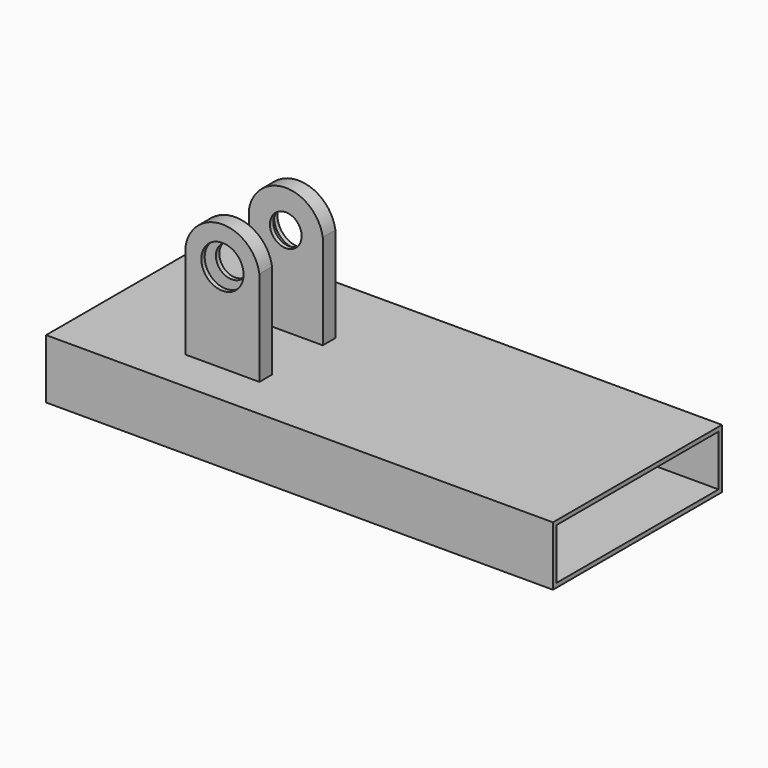
from build123d import *

# Parameters (mm, degrees)
F0_W            = 304.8
F0_H            = 35.6965847313
F1_DEPTH        = 63.5
F2_W            = 25.4
F2_H            = 44.45
F3_DEPTH        = 152.4
F4_W            = 44.45
F4_H            = 9.525
F5_DEPTH        = 57.15
F6_DEPTH        = 57.15
F9_DEPTH        = 9.525
F10_DEPTH       = 9.525
F11_W           = 304.8
F11_H           = 114.3
F12_DEPTH       = 31.75
F13_T           = -2.54
F16_D           = 19.05
F16_DEPTH       = 9.525
F16_CBORE_D     = 25.4
F16_CBORE_DEPTH = 3.81
F16_TIP         = 5.7231973962
F17_D           = 19.05
F17_DEPTH       = 9.525
F17_CBORE_D     = 25.4
F17_CBORE_DEPTH = 3.81
F17_TIP         = 5.7231973962


with BuildPart() as f1:
    # F0 (on Front) → F1 (new body, symmetric)
    with BuildSketch(Plane.XZ):
        with Locations((25.4629384518, -47.1194889396)):
            Rectangle(F0_W, F0_H)
    extrude(amount=F1_DEPTH, both=True)

    # F2 (on face) → F3 (cut)
    with BuildSketch(Plane.XZ.offset(63.5)):
        with BuildLine():
            ThreePointArc((-37.1512658894, 15.178803426), (-49.8512658894, 27.878803426), (-62.5512658894, 15.178803426))
            Line((-62.5512658894, 15.178803426), (-37.1512658894, 15.178803426))
        make_face()
        with Locations((-49.8512658894, -7.046196574)):
            Rectangle(F2_W, F2_H)
    extrude(amount=-F3_DEPTH, mode=Mode.SUBTRACT)

    # F4 (on face) → F5 (join)
    with BuildSketch(Plane.XY.offset(-29.271196574)):
        with Locations((-41.2120615482, 14.2875)):
            Rectangle(F4_W, F4_H)
    extrude(amount=F5_DEPTH)

    # F4 (on face) → F6 (join)
    with BuildSketch(Plane.XY.offset(-29.271196574)):
        with Locations((-41.2120615482, 14.2875)):
            Rectangle(F4_W, F4_H)
        with Locations((-41.2120615482, -33.3375)):
            Rectangle(F4_W, F4_H)
    extrude(amount=F6_DEPTH)

    # F7 (on face) → F9 (join)
    with BuildSketch(Plane.XZ.offset(38.1)):
        with BuildLine():
            Line((-63.4370615482, 27.878803426), (-18.9870615482, 27.878803426))
            ThreePointArc((-18.9870615482, 27.878803426), (-41.2120615482, 46.928803426), (-63.4370615482, 27.878803426))
        make_face()
    extrude(amount=-F9_DEPTH)

    # F8 (on face) → F10 (join)
    with BuildSketch(Plane.XZ.offset(-9.525)):
        with BuildLine():
            Line((-63.4370615482, 27.878803426), (-18.9870615482, 27.878803426))
            ThreePointArc((-18.9870615482, 27.878803426), (-41.2120615482, 46.928803426), (-63.4370615482, 27.878803426))
        make_face()
    extrude(amount=-F10_DEPTH)

    # F11 (on face) → F12 (join)
    with BuildSketch(Plane(origin=(0, 0, -64.9677813053), x_dir=(1, 0, 0), z_dir=(0, 0, -1))):
        with Locations((25.4629384518, 0.6365377843)):
            Rectangle(F11_W, F11_H)
    extrude(amount=-F12_DEPTH)

    # F13
    f13_openings = [f1.faces().sort_by_distance(p)[0] for p in [
        (-126.937062, 0, -47.119489),
        (177.862938, 0, -47.119489),
    ]]
    offset(amount=F13_T, openings=f13_openings, kind=Kind.INTERSECTION)

    # F16
    with Locations(Plane.XZ.offset(38.1)):
        with Locations((-41.2120615482, 24.4392200927)):
            CounterBoreHole(F16_D / 2, F16_CBORE_D / 2, F16_CBORE_DEPTH, depth=F16_DEPTH)
            with Locations((0, 0, -(F16_DEPTH + F16_TIP / 2))):  # 118° drill point
                Cone(0, F16_D / 2, F16_TIP, mode=Mode.SUBTRACT)

    # F17
    with Locations(Plane(origin=(0, 19.05, 0), x_dir=(-1, 0, 0), z_dir=(0, 1, 0))):
        with Locations((41.2120615482, 24.4392200927)):
            CounterBoreHole(F17_D / 2, F17_CBORE_D / 2, F17_CBORE_DEPTH, depth=F17_DEPTH)
            with Locations((0, 0, -(F17_DEPTH + F17_TIP / 2))):  # 118° drill point
                Cone(0, F17_D / 2, F17_TIP, mode=Mode.SUBTRACT)


solid = f1.part
